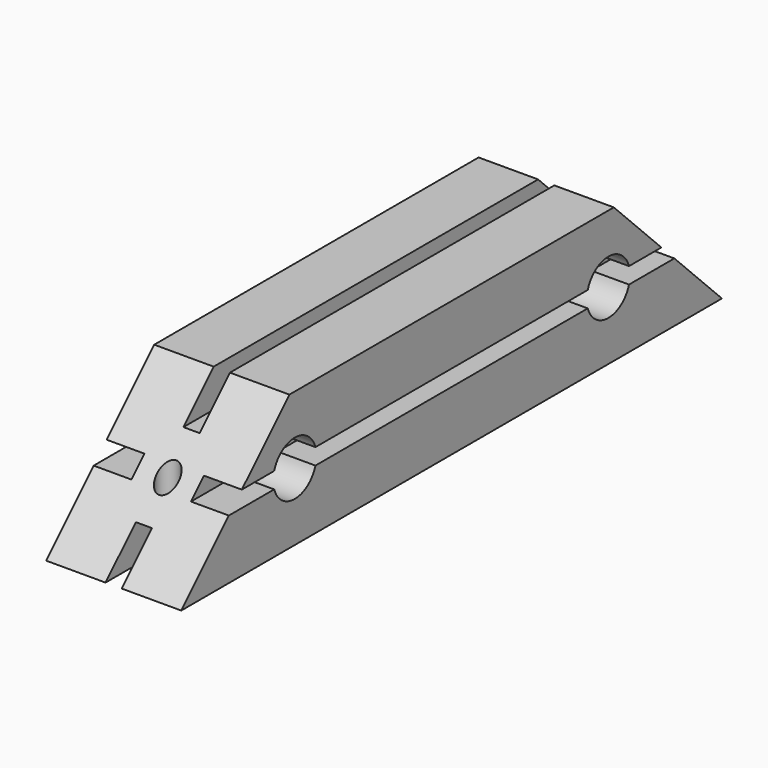
from build123d import *

# Parameters (mm, degrees)
F0_W      = 50
F0_H      = 50
F1_DEPTH  = 250
F3_R      = 4
F4_DEPTH  = 50.001
F5_W      = 6
F5_H      = 14
F5_W_2    = 14
F5_H_2    = 6
F6_DEPTH  = 250.001
F8_DEPTH  = 50.001
F9_R      = 10
F10_DEPTH = 35


with BuildPart() as f1:
    # F0 (on Front) → F1 (new body)
    with BuildSketch(Plane.XZ):
        Rectangle(F0_W, F0_H)
    extrude(amount=F1_DEPTH)

    # F3 (on face) → F4 (cut, through all)
    with BuildSketch(Plane(origin=(0, 0, -25), x_dir=(1, 0, 0), z_dir=(0, 0, -1))):
        with Locations((0, 825)):
            Circle(F3_R)
        with Locations((0, 625)):
            Circle(F3_R)
        with Locations((0, 425)):
            Circle(F3_R)
        with Locations((0, 225)):
            Circle(F3_R)
        with Locations((0, 25)):
            Circle(F3_R)
        with Locations((0, -175)):
            Circle(F3_R)
        with Locations((0, -375)):
            Circle(F3_R)
        with Locations((0, -575)):
            Circle(F3_R)
    extrude(amount=-F4_DEPTH, mode=Mode.SUBTRACT)

    # F5 (on face) → F6 (cut, through all)
    with BuildSketch(Plane.XZ.offset(250)):
        with Locations((0, 18)):
            Rectangle(F5_W, F5_H)
        with Locations((0, -18)):
            Rectangle(F5_W, F5_H)
        with Locations((-18, 50)):
            Rectangle(F5_W_2, F5_H_2)
        with Locations((-18, 0)):
            Rectangle(F5_W_2, F5_H_2)
        with Locations((-18, -50)):
            Rectangle(F5_W_2, F5_H_2)
        with Locations((18, 50)):
            Rectangle(F5_W_2, F5_H_2)
        with Locations((18, 0)):
            Rectangle(F5_W_2, F5_H_2)
        with Locations((18, -50)):
            Rectangle(F5_W_2, F5_H_2)
    extrude(amount=-F6_DEPTH, mode=Mode.SUBTRACT)

    # F7 (on face) → F8 (cut, through all)
    with BuildSketch(Plane(origin=(-25, 0, 0), x_dir=(0, -1, 0), z_dir=(-1, 0, 0))):
        Polygon((50, 25), (0, 25), (0, -25), align=None)
        Polygon((250, 25), (200, 25), (250, -25), align=None)
    extrude(amount=-F8_DEPTH, mode=Mode.SUBTRACT)

    # F9 (on face) → F10 (cut)
    with BuildSketch(Plane.YZ.offset(25)):
        with Locations((-197.5, 0)):
            Circle(F9_R)
        with Locations((-52.5, 0)):
            Circle(F9_R)
    extrude(amount=-F10_DEPTH, mode=Mode.SUBTRACT)


solid = f1.part
